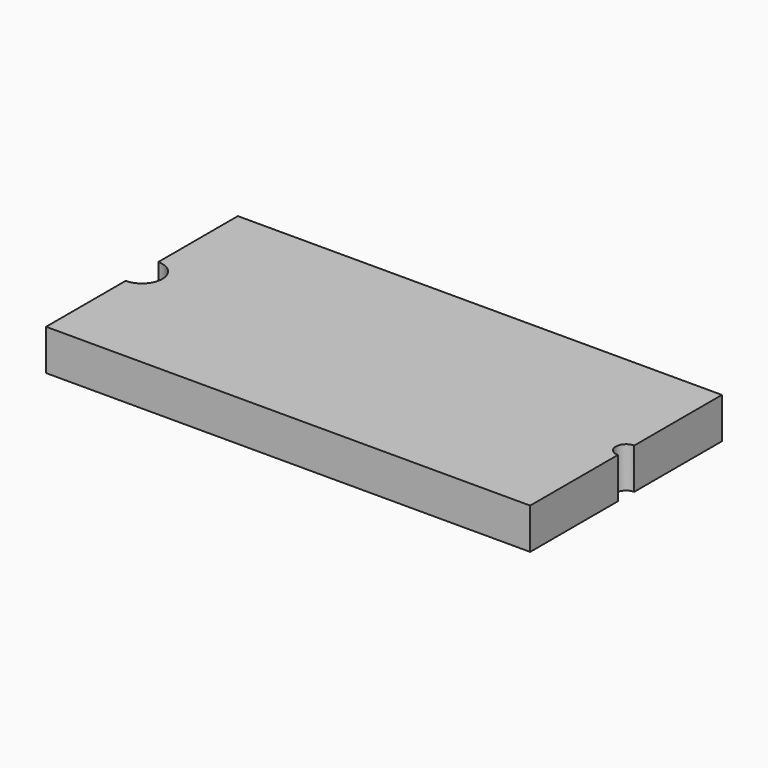
from build123d import *

# Parameters (mm, degrees)
F0_W     = 150.700152
F0_H     = 74.61378
F1_DEPTH = 12.7
F3_D     = 6.35
F5_D     = 12.7


with BuildPart() as f1:
    # F0 (on Top) → F1 (new body)
    with BuildSketch(Plane.XY):
        Rectangle(F0_W, F0_H)
    extrude(amount=F1_DEPTH)

    # F3 (through all)
    with Locations(Plane.XY.offset(12.7)):
        with Locations((75.350076, 0)):
            Hole(F3_D / 2)

    # F5 (through all)
    with Locations(Plane.XY.offset(12.7)):
        with Locations((-75.350076, 0)):
            Hole(F5_D / 2)


solid = f1.part
